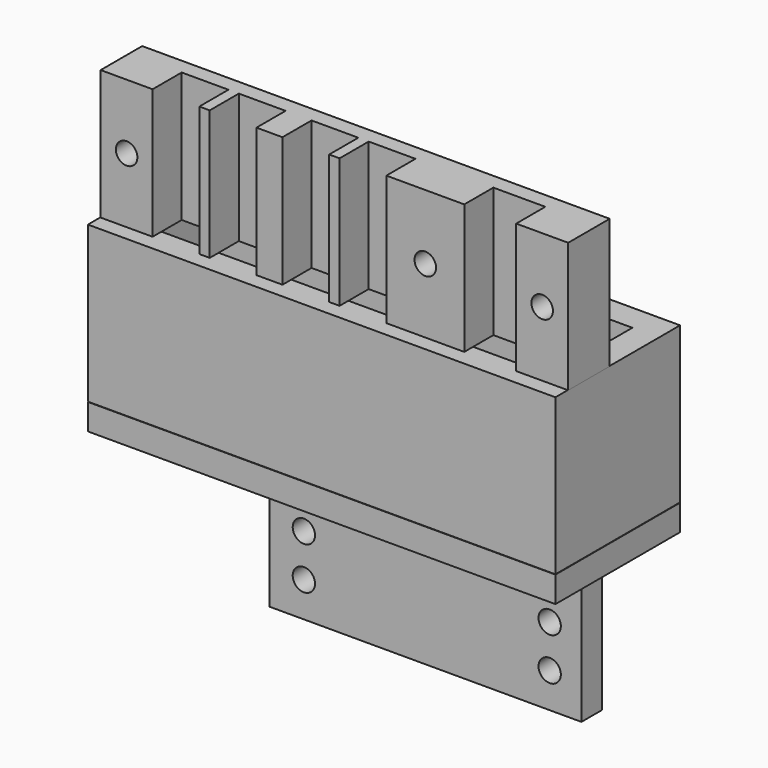
from build123d import *

# Parameters (mm, degrees)
F1_DEPTH  = 25
F2_W      = 90
F2_H      = 30
F2_W_2    = 79.8000005633
F2_H_2    = 19.8000005633
F3_DEPTH  = 30
F5_W      = 90
F5_H      = 30
F6_DEPTH  = 5
F7_W      = 60
F7_H      = 5
F8_DEPTH  = 35
F9_R      = 2.075
F10_DEPTH = 5
F12_R     = 2.075
F13_DEPTH = 10
F15_R     = 2.15
F16_DEPTH = 5
F17_DEPTH = 35


with BuildPart() as f1:
    # F0 (on Top) → F1 (new body)
    with BuildSketch(Plane.XY):
        Polygon((-20, 0), (-45, 0), (-45, -10), (-35, -10), (-35, -3), (-26, -3), (-26, -10), (-24, -10.0096508846), (-24, -3), (-15, -3), (-15, -10), (-10, -10), (-10, -3), (-1, -3), (-1, -10), (1, -10), (1, -3), (10, -3), (10, -10), (25, -10), (25, -3), (35, -3), (35, -10), (45, -10), (45, 0), (20, 0), align=None)
    extrude(amount=F1_DEPTH)

    # F2 (on Top) → F3 (join)
    with BuildSketch(Plane.XY):
        with Locations((-0.0773276389, 2.026154995)):
            Rectangle(F2_W, F2_H)
        with Locations((-0.0773276389, 2.026154995)):
            Rectangle(F2_W_2, F2_H_2, mode=Mode.SUBTRACT)
    extrude(amount=-F3_DEPTH)

    # F5 (on offset) → F6 (join)
    with BuildSketch(Plane(origin=(0, 0, -30), x_dir=(1, 0, 0), z_dir=(0, 0, -1))):
        with Locations((-0.0007246435, -1.9418361038)):
            Rectangle(F5_W, F5_H)
    extrude(amount=F6_DEPTH)

    # F7 (on face) → F8 (join)
    with BuildSketch(Plane(origin=(0, 0, -35), x_dir=(1, 0, 0), z_dir=(0, 0, -1))):
        with Locations((-0.0007246435, -14.4418361038)):
            Rectangle(F7_W, F7_H)
    extrude(amount=F8_DEPTH)

    # F9 (on face) → F10 (cut, through all)
    with BuildSketch(Plane.XZ.offset(-11.9418361038)):
        with Locations((-10.0007246435, -40)):
            Circle(F9_R)
        with Locations((9.9992753565, -40)):
            Circle(F9_R)
    extrude(amount=-F10_DEPTH, mode=Mode.SUBTRACT)

    # F12 (on offset) → F13 (cut, through all)
    with BuildSketch(Plane(origin=(0, -10, 0), x_dir=(-1, 0, 0), z_dir=(0, 1, 0))):
        with Locations((40, 12.5)):
            Circle(F12_R)
        with Locations((-17.5, 12.5)):
            Circle(F12_R)
        with Locations((-40, 12.5)):
            Circle(F12_R)
    extrude(amount=F13_DEPTH, mode=Mode.SUBTRACT)

    # F15 (on offset) → F16 (cut, through all)
    with BuildSketch(Plane(origin=(0, 16.9418361038, 0), x_dir=(-1, 0, 0), z_dir=(0, 1, 0))):
        with Locations((23.4303546713, -55.0644522592)):
            Circle(F15_R)
        with Locations((-23.8896453287, -55.0644522592)):
            Circle(F15_R)
        with Locations((-23.8896453287, -63.2644522592)):
            Circle(F15_R)
        with Locations((23.4303546713, -63.2644522592)):
            Circle(F15_R)
    extrude(amount=-F16_DEPTH, mode=Mode.SUBTRACT)

    # F2 (on Top) → F17 (cut)
    with BuildSketch(Plane.XY):
        with Locations((-0.0773276389, 2.026154995)):
            Rectangle(F2_W_2, F2_H_2)
    extrude(amount=-F17_DEPTH, mode=Mode.SUBTRACT)


solid = f1.part
